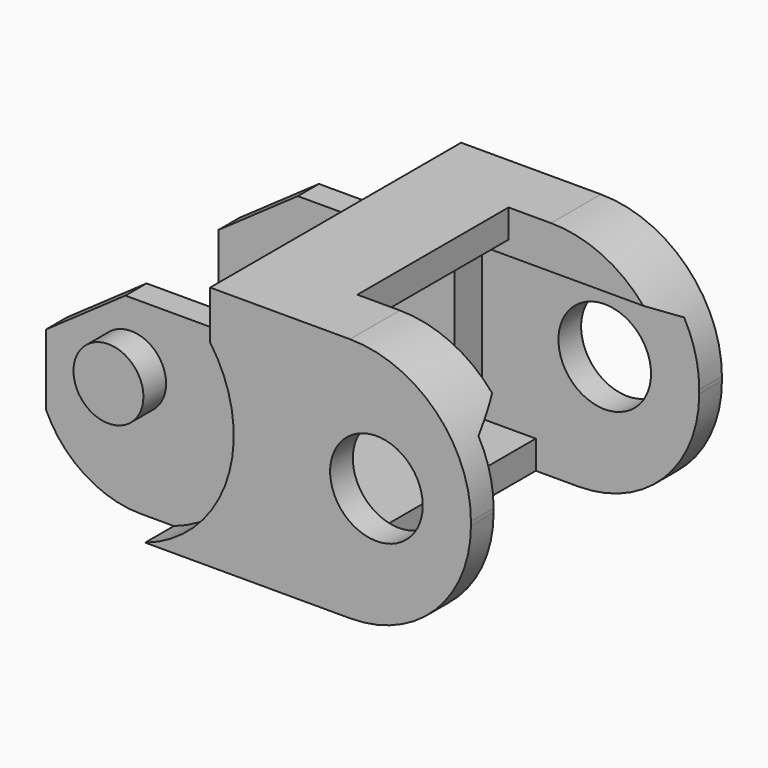
from build123d import *

# Parameters (mm, degrees)
BOX010_W               = 11
BOX010_H               = 3
BOX010_DEPTH           = 3
BOX010_PLACEMENT_ANGLE = 60.000023
BOX004_W               = 26
BOX004_H               = 10
BOX004_DEPTH           = 10
BOX005_W               = 8
BOX005_H               = 10
BOX005_DEPTH           = 13
BOX006_W               = 10
BOX006_H               = 13.6
BOX006_DEPTH           = 9.7
BOX007_W               = 6
BOX007_H               = 13.6
BOX007_DEPTH           = 8.2
BOX008_W               = 8
BOX008_H               = 10
BOX008_DEPTH           = 10
BOX009_W               = 11
BOX009_H               = 3
BOX009_DEPTH           = 3
BOX009_PLACEMENT_ANGLE = 29.99999
CYLINDER012024_R       = 1.85
CYLINDER012024_DEPTH   = 15.8
CYLINDER012026_R       = 5.5
CYLINDER012026_DEPTH   = 17.5
BOX003_W               = 5
BOX003_H               = 17.5
BOX003_DEPTH           = 4
BOX001_W               = 7
BOX001_H               = 18
BOX001_DEPTH           = 4
CYLINDER012025_R       = 6.85
CYLINDER012025_DEPTH   = 3
CYLINDER012023_R       = 2.45
CYLINDER012023_DEPTH   = 17.5
CYLINDER012022_R       = 6.85
CYLINDER012022_DEPTH   = 3
BOX002_W               = 9
BOX002_H               = 18
BOX002_DEPTH           = 5
BOX002_PLACEMENT_ANGLE = 35.00002
BOX_W                  = 24
BOX_H                  = 16.6
BOX_DEPTH              = 13
FILLET_R               = 6.4


with BuildPart() as box010:
    # Box010 → Box010 (new body)
    with BuildSketch(Plane.XY):
        with Locations((5.5, 1.5)):
            Rectangle(BOX010_W, BOX010_H)
    extrude(amount=BOX010_DEPTH)


with BuildPart() as box010_1:
    # Box010 placement: moved
    add(box010.part.moved(Location((12.5, 13.7, 7.1))).rotate(Axis((12.5, 13.7, 7.1), (1, 0, 0)), BOX010_PLACEMENT_ANGLE))


with BuildPart() as box004:
    # Box004 → Box004 (new body)
    with BuildSketch(Plane(origin=(-1, 3.4, 1.5), x_dir=(1, 0, 0), z_dir=(0, 0, 1))):
        with Locations((13, 5)):
            Rectangle(BOX004_W, BOX004_H)
    extrude(amount=BOX004_DEPTH)


with BuildPart() as box005:
    # Box005 → Box005 (new body)
    with BuildSketch(Plane(origin=(-1, 3.4, -1.5), x_dir=(1, 0, 0), z_dir=(0, 0, 1))):
        with Locations((4, 5)):
            Rectangle(BOX005_W, BOX005_H)
    extrude(amount=BOX005_DEPTH)


with BuildPart() as box006:
    # Box006 → Box006 (new body)
    with BuildSketch(Plane(origin=(15.35, 1.6, 0), x_dir=(1, 0, 0), z_dir=(0, 0, 1))):
        with Locations((5, 6.8)):
            Rectangle(BOX006_W, BOX006_H)
    extrude(amount=BOX006_DEPTH)


with BuildPart() as box007:
    # Box007 → Box007 (new body)
    with BuildSketch(Plane(origin=(12.5, 1.6, 1.5), x_dir=(1, 0, 0), z_dir=(0, 0, 1))):
        with Locations((3, 6.8)):
            Rectangle(BOX007_W, BOX007_H)
    extrude(amount=BOX007_DEPTH)


with BuildPart() as box008:
    # Box008 → Box008 (new body)
    with BuildSketch(Plane(origin=(15.35, 3.4, 3.5), x_dir=(1, 0, 0), z_dir=(0, 0, 1))):
        with Locations((4, 5)):
            Rectangle(BOX008_W, BOX008_H)
    extrude(amount=BOX008_DEPTH)


with BuildPart() as fusion011:
    # Box009 → Box009 (new body)
    with BuildSketch(Plane.XY):
        with Locations((5.5, 1.5)):
            Rectangle(BOX009_W, BOX009_H)
    extrude(amount=BOX009_DEPTH)


with BuildPart() as fusion011_1:
    # Box009 placement: moved
    add(fusion011.part.moved(Location((12.5, 3.1, 7.1))).rotate(Axis((12.5, 3.1, 7.1), (1, 0, 0)), BOX009_PLACEMENT_ANGLE))

    # Fusion011: union Box010, Box004, Box005, Box006, Box007, Box008
    add(box010_1.part)
    add(box004.part)
    add(box005.part)
    add(box006.part)
    add(box007.part)
    add(box008.part)


with BuildPart() as cylinder012024:
    # Cylinder012024 → Cylinder012024 (new body)
    with BuildSketch(Plane(origin=(4.5, 16.3, 6.5), x_dir=(1, 0, 0), z_dir=(0, -1, 0))):
        Circle(CYLINDER012024_R)
    extrude(amount=CYLINDER012024_DEPTH)


with BuildPart() as cylinder012026:
    # Cylinder012026 → Cylinder012026 (new body)
    with BuildSketch(Plane(origin=(5, 17, 5.5), x_dir=(1, 0, 0), z_dir=(0, -1, 0))):
        Circle(CYLINDER012026_R)
    extrude(amount=CYLINDER012026_DEPTH)


with BuildPart() as cut003004:
    # Box003 → Box003 (new body)
    with BuildSketch(Plane(origin=(0, -0.5, 0), x_dir=(1, 0, 0), z_dir=(0, 0, 1))):
        with Locations((2.5, 8.75)):
            Rectangle(BOX003_W, BOX003_H)
    extrude(amount=BOX003_DEPTH)

    # Cut003004: cut Cylinder012026
    add(cylinder012026.part, mode=Mode.SUBTRACT)


with BuildPart() as box001:
    # Box001 → Box001 (new body)
    with BuildSketch(Plane(origin=(3.2, -1, 9.9), x_dir=(1, 0, 0), z_dir=(0, 0, 1))):
        with Locations((3.5, 9)):
            Rectangle(BOX001_W, BOX001_H)
    extrude(amount=BOX001_DEPTH)


with BuildPart() as cylinder012025:
    # Cylinder012025 → Cylinder012025 (new body)
    with BuildSketch(Plane(origin=(4.6, 2, 6.5), x_dir=(1, 0, 0), z_dir=(0, -1, 0))):
        Circle(CYLINDER012025_R)
    extrude(amount=CYLINDER012025_DEPTH)


with BuildPart() as cylinder012023:
    # Cylinder012023 → Cylinder012023 (new body)
    with BuildSketch(Plane(origin=(19, 17, 6.5), x_dir=(1, 0, 0), z_dir=(0, -1, 0))):
        Circle(CYLINDER012023_R)
    extrude(amount=CYLINDER012023_DEPTH)


with BuildPart() as cylinder012022:
    # Cylinder012022 → Cylinder012022 (new body)
    with BuildSketch(Plane(origin=(4.6, 17.8, 6.5), x_dir=(1, 0, 0), z_dir=(0, -1, 0))):
        Circle(CYLINDER012022_R)
    extrude(amount=CYLINDER012022_DEPTH)


with BuildPart() as fusion012:
    # Box002 → Box002 (new body)
    with BuildSketch(Plane.XY):
        with Locations((4.5, 9)):
            Rectangle(BOX002_W, BOX002_H)
    extrude(amount=BOX002_DEPTH)


with BuildPart() as fusion012_1:
    # Box002 placement: moved
    add(fusion012.part.moved(Location((-0.8, -1, 6.4))).rotate(Axis((-0.8, -1, 6.4), (0, -1, 0)), BOX002_PLACEMENT_ANGLE))

    # Fusion010: union Box001, Cylinder012025, Cylinder012023, Cylinder012022
    add(box001.part)
    add(cylinder012025.part)
    add(cylinder012023.part)
    add(cylinder012022.part)

    # Fusion012: union Cut003004
    add(cut003004.part)


with BuildPart() as pieza:
    # Box → Box (new body)
    with BuildSketch(Plane(origin=(0, 0.1, 0), x_dir=(1, 0, 0), z_dir=(0, 0, 1))):
        with Locations((12, 8.3)):
            Rectangle(BOX_W, BOX_H)
    extrude(amount=BOX_DEPTH)

    # Fillet
    fillet_edges = [pieza.edges().sort_by_distance(p)[0] for p in [
        (24, 8.4, 13),
        (24, 8.4, 0),
    ]]
    fillet(fillet_edges, radius=FILLET_R)

    # Cut003005: cut Fusion012
    add(fusion012_1.part, mode=Mode.SUBTRACT)

    # Fusion013: union Cylinder012024
    add(cylinder012024.part)

    # Cut002007: cut Fusion011
    add(fusion011_1.part, mode=Mode.SUBTRACT)


with BuildPart() as pieza_1:
    # Cut002007 placement: moved
    add(pieza.part.moved(Location((-4.5, -8, -6.5))))


solid = pieza_1.part
